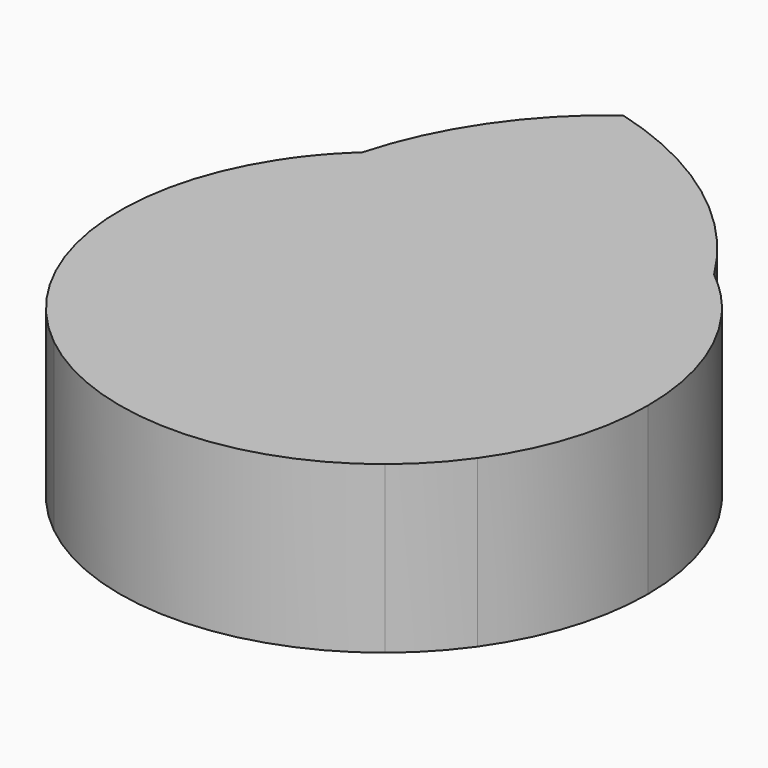
from build123d import *

# Parameters (mm, degrees)
F0_W     = 35.4242771864
F0_H     = 26.7208982259
F1_DEPTH = 25.4


with BuildPart() as f1:
    # F0 (on Top) → F1 (new body)
    with BuildSketch(Plane.XY):
        with Locations((-37.4092571437, -7.2528151795)):
            Rectangle(F0_W, F0_H)
        with BuildLine():
            Line((-19.6971185505, -20.6132642925), (-55.1213957369, -20.6132642925))
            Line((-55.1213957369, -20.6132642925), (-70.085093379, -20.6132642925))
            Line((-70.085093379, -20.6132642925), (-70.085093379, -28.3440517993))
            ThreePointArc((-70.085093379, -28.3440517993), (-66.5419663572, -32.6846731421), (-62.4321560506, -36.4931114018))
            Line((-62.4321560506, -36.4931114018), (-11.7755894419, -36.4931114018))
            ThreePointArc((-11.7755894419, -36.4931114018), (-7.6657794114, -32.6846734362), (-4.1226525791, -28.3440524583))
            Line((-4.1226525791, -28.3440524583), (-4.1226525791, -20.6132642925))
            Line((-4.1226525791, -20.6132642925), (-19.6971185505, -20.6132642925))
        make_face()
        with BuildLine():
            Line((-11.7755894419, -36.4931114018), (-62.4321560506, -36.4931114018))
            ThreePointArc((-62.4321560506, -36.4931114018), (-37.1038727462, -45.4231484856), (-11.7755894419, -36.4931114018))
        make_face()
        with BuildLine():
            Line((-4.4280341826, 6.1076339334), (-19.6971185505, 6.1076339334))
            Line((-19.6971185505, 6.1076339334), (-19.6971185505, -20.6132642925))
            Line((-19.6971185505, -20.6132642925), (-4.1226525791, -20.6132642925))
            Line((-4.1226525791, -20.6132642925), (-4.1226525791, -28.3440524583))
            ThreePointArc((-4.1226525791, -28.3440524583), (1.3852226917, -17.2652163085), (3.2804778839, -5.0387978554))
            ThreePointArc((3.2804778839, -5.0387978554), (1.3050344076, 7.4372442681), (-4.4280341826, 18.6927286439))
            Line((-4.4280341826, 18.6927286439), (-4.4280341826, 6.1076339334))
        make_face()
        with BuildLine():
            ThreePointArc((-45.9599420428, 51.7621934414), (-57.3764856117, 39.820997475), (-64.2957075029, 24.8191976967))
            ThreePointArc((-64.2957075029, 24.8191976967), (-38.2949642137, 35.3279839948), (-11.7198362332, 26.3705393889))
            ThreePointArc((-11.7198362332, 26.3705393889), (-26.4412071067, 42.3009381523), (-45.9599420428, 51.7621934414))
        make_face()
        with BuildLine():
            Line((-71.001239121, 16.9126104976), (-71.001239121, 6.1076339334))
            Line((-71.001239121, 6.1076339334), (-55.1213957369, 6.1076339334))
            Line((-55.1213957369, 6.1076339334), (-19.6971185505, 6.1076339334))
            Line((-19.6971185505, 6.1076339334), (-4.4280341826, 6.1076339334))
            Line((-4.4280341826, 6.1076339334), (-4.4280341826, 18.6927286439))
            ThreePointArc((-4.4280341826, 18.6927286439), (-5.2167901821, 19.742439833), (-6.0392542058, 20.7659546286))
            Line((-6.0392542058, 20.7659546286), (-68.1684912867, 20.7659546286))
            ThreePointArc((-68.1684912867, 20.7659546286), (-69.641957144, 18.8812531384), (-71.001239121, 16.9126104976))
        make_face()
        with BuildLine():
            ThreePointArc((-64.2957075029, 24.8191976967), (-66.3025162512, 22.859857906), (-68.1684912867, 20.7659546286))
            Line((-68.1684912867, 20.7659546286), (-6.0392542058, 20.7659546286))
            ThreePointArc((-6.0392542058, 20.7659546286), (-8.7407715949, 23.7089023813), (-11.7198362332, 26.3705393889))
            ThreePointArc((-11.7198362332, 26.3705393889), (-38.2949642137, 35.3279839948), (-64.2957075029, 24.8191976967))
        make_face()
        with BuildLine():
            Line((-55.1213957369, 6.1076339334), (-71.001239121, 6.1076339334))
            Line((-71.001239121, 6.1076339334), (-71.001239121, 16.9126104976))
            ThreePointArc((-71.001239121, 16.9126104976), (-77.479951315, -5.8561443096), (-70.085093379, -28.3440517993))
            Line((-70.085093379, -28.3440517993), (-70.085093379, -20.6132642925))
            Line((-70.085093379, -20.6132642925), (-55.1213957369, -20.6132642925))
            Line((-55.1213957369, -20.6132642925), (-55.1213957369, 6.1076339334))
        make_face()
    extrude(amount=F1_DEPTH)


solid = f1.part
